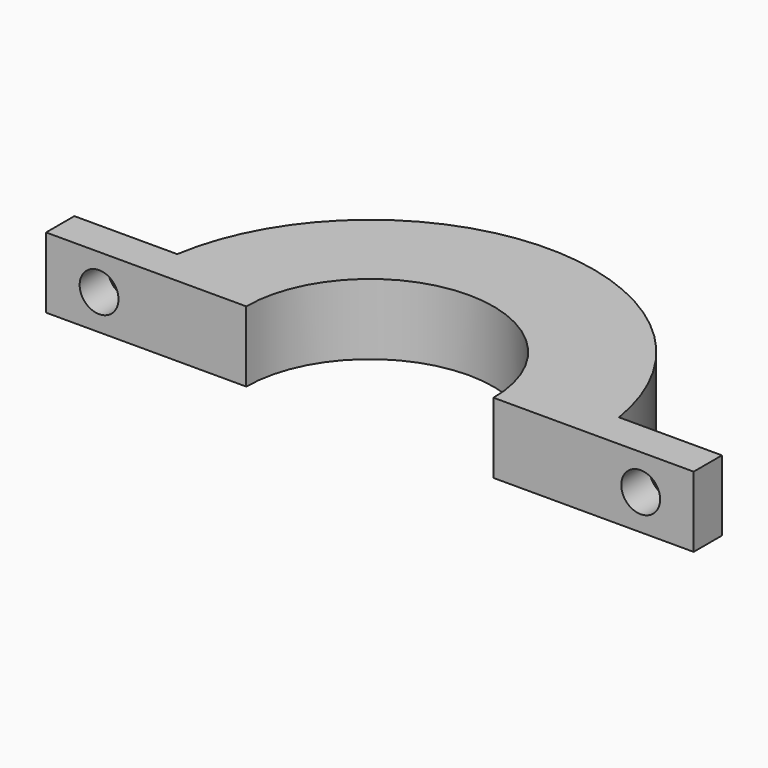
from build123d import *

# Parameters (mm, degrees)
PAD_DEPTH   = 6
SKETCH001_R = 1.65
HOLE_DEPTH  = 25


with BuildPart() as part:
    # Sketch → Pad (new body)
    with BuildSketch(Plane.XY):
        with BuildLine():
            ThreePointArc((10.5, 0), (0, 10.5), (-10.5, 0))
            Line((-27.5, 0), (-10.5, 0))
            Line((-27.5, 3), (-27.5, 0))
            Line((-18.761663, 3), (-27.5, 3))
            ThreePointArc((18.761663, 3), (0, 19), (-18.761663, 3))
            Line((27.5, 3), (18.761663, 3))
            Line((27.5, 0), (27.5, 3))
            Line((27.5, 0), (10.5, 0))
        make_face()
    extrude(amount=PAD_DEPTH)

    # Sketch001 (on Face5 of Pad) → Hole (cut)
    with BuildSketch(Plane(origin=(0, 3, 0), x_dir=(-1, 0, 0), z_dir=(0, 1, 0))):
        with Locations((-23, 3)):
            Circle(SKETCH001_R)
        with Locations((23, 3)):
            Circle(SKETCH001_R)
    extrude(amount=-HOLE_DEPTH, mode=Mode.SUBTRACT)


solid = part.part
